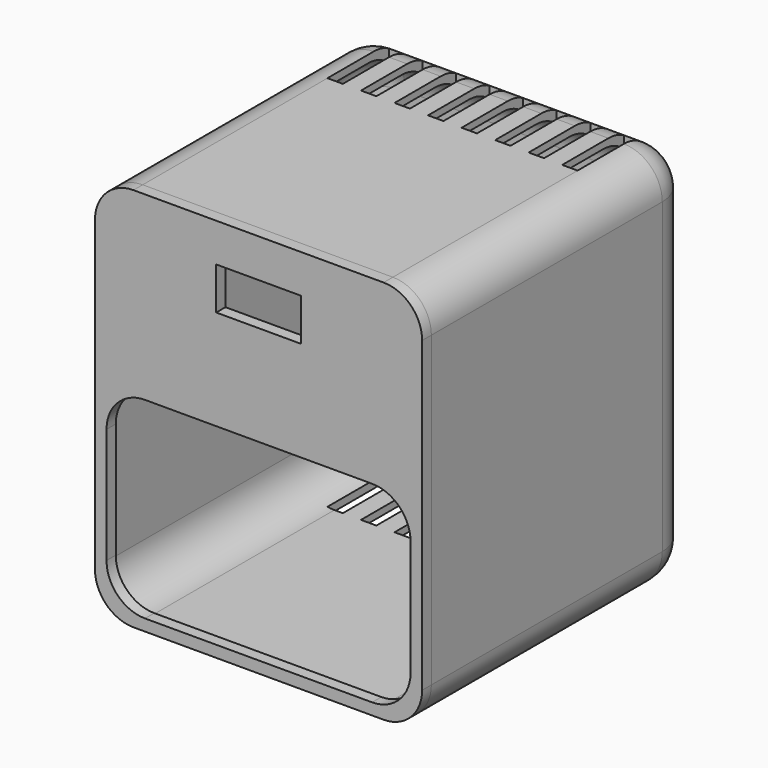
from build123d import *

# Parameters (mm, degrees)
SKETCH_W            = 85
SKETCH_H            = 100
PAD_DEPTH           = 85
SKETCH001_W         = 81.4
SKETCH001_H         = 96.4
POCKET_DEPTH        = 83.2
FILLET_R            = 10
SKETCH002_W         = 4
SKETCH002_H         = 20
POCKET001_DEPTH     = 500
LINEARPATTERN_COUNT = 8
LINEARPATTERN_PITCH = 8.7142857143
PAD001_DEPTH        = 3
POCKET002_DEPTH     = 5
SKETCH005_W         = 22
SKETCH005_H         = 11
POCKET003_DEPTH     = 5


with BuildPart() as main_case:
    # Sketch → Pad (new body)
    with BuildSketch(Plane.XZ):
        Rectangle(SKETCH_W, SKETCH_H)
    extrude(amount=PAD_DEPTH)

    # Sketch001 (on Face6 of Pad) → Pocket (cut)
    with BuildSketch(Plane.XZ.offset(85)):
        Rectangle(SKETCH001_W, SKETCH001_H)
    extrude(amount=-POCKET_DEPTH, mode=Mode.SUBTRACT)

    # Fillet
    fillet_edges = [main_case.edges().sort_by_distance(p)[0] for p in [
        (42.5, -42.5, -50),
        (0, 0, -50),
        (42.5, -42.5, 50),
        (0, 0, 50),
        (-42.5, -42.5, 50),
        (-42.5, -42.5, -50),
        (-40.7, -43.4, 48.2),
        (0, -1.8, 48.2),
        (0, -1.8, -48.2),
        (-40.7, -43.4, -48.2),
        (40.7, -43.4, -48.2),
        (40.7, -43.4, 48.2),
        (42.5, 0, 0),
        (-42.5, 0, 0),
        (40.7, -1.8, 0),
        (-40.7, -1.8, 0),
    ]]
    fillet(fillet_edges, radius=FILLET_R)

    # Sketch002 (on Face7 of Fillet) → Pocket001 (cut)
    with BuildSketch(Plane(origin=(0, 0, 50), x_dir=(-1, 0, 0), z_dir=(0, 0, 1))):
        with Locations((-30.5, 15)):
            Rectangle(SKETCH002_W, SKETCH002_H)
    pocket001 = extrude(amount=-POCKET001_DEPTH, mode=Mode.SUBTRACT)

    # LinearPattern: Pocket001 ×8
    with Locations(*[(-i * LINEARPATTERN_PITCH, 0, 0) for i in range(1, LINEARPATTERN_COUNT)]):
        add(pocket001, mode=Mode.SUBTRACT)


with BuildPart() as front_panel:
    # Sketch003 → Pad001 (new body)
    with BuildSketch(Plane.XZ):
        with BuildLine():
            ThreePointArc((-32.5, 50), (-39.5710678119, 47.0710678119), (-42.5, 40))
            Line((-42.5, -40), (-42.5, 40))
            ThreePointArc((-42.5, -40), (-39.5710678119, -47.0710678119), (-32.5, -50))
            Line((32.5, -50), (-32.5, -50))
            ThreePointArc((32.5, -50), (39.5710678119, -47.0710678119), (42.5, -40))
            Line((42.5, 40), (42.5, -40))
            ThreePointArc((42.5, 40), (39.5710678119, 47.0710678119), (32.5, 50))
            Line((-32.5, 50), (32.5, 50))
        make_face()
    extrude(amount=PAD001_DEPTH)

    # Sketch004 (on Face10 of Pad001) → Pocket002 (cut)
    with BuildSketch(Plane.XZ.offset(3)):
        with BuildLine():
            ThreePointArc((-29.5, 3), (-36.5710678119, 0.0710678119), (-39.5, -7))
            Line((-39.5, -37), (-39.5, -7))
            ThreePointArc((-39.5, -37), (-36.5710678119, -44.0710678119), (-29.5, -47))
            Line((29.5, -47), (-29.5, -47))
            ThreePointArc((29.5, -47), (36.5710678119, -44.0710678119), (39.5, -37))
            Line((39.5, -7), (39.5, -37))
            ThreePointArc((39.5, -7), (36.5710678119, 0.0710678119), (29.5, 3))
            Line((-29.5, 3), (29.5, 3))
        make_face()
    extrude(amount=-POCKET002_DEPTH, mode=Mode.SUBTRACT)

    # Sketch005 (on Face5 of Pocket002) → Pocket003 (cut)
    with BuildSketch(Plane.XZ.offset(3)):
        with Locations((0, 34.5)):
            Rectangle(SKETCH005_W, SKETCH005_H)
    extrude(amount=-POCKET003_DEPTH, mode=Mode.SUBTRACT)


with BuildPart() as front_panel_1:
    # Body001 placement: moved
    add(front_panel.part.moved(Location((0, -85, 0))))


solid = Compound([main_case.part, front_panel_1.part])
